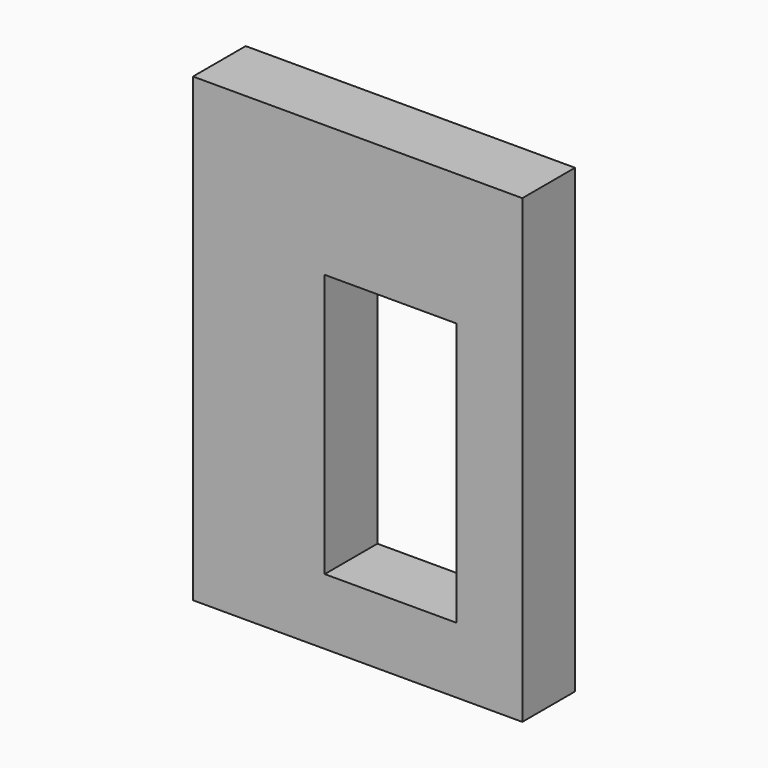
from build123d import *

# Parameters (mm, degrees)
F0_W     = 50
F0_H     = 70
F0_W_2   = 20
F0_H_2   = 40
F1_DEPTH = 10


with BuildPart() as f1:
    # F0 (on Front) → F1 (new body)
    with BuildSketch(Plane.XZ):
        with Locations((25, 35)):
            Rectangle(F0_W, F0_H)
        with Locations((30, 30)):
            Rectangle(F0_W_2, F0_H_2, mode=Mode.SUBTRACT)
    extrude(amount=-F1_DEPTH)


solid = f1.part
